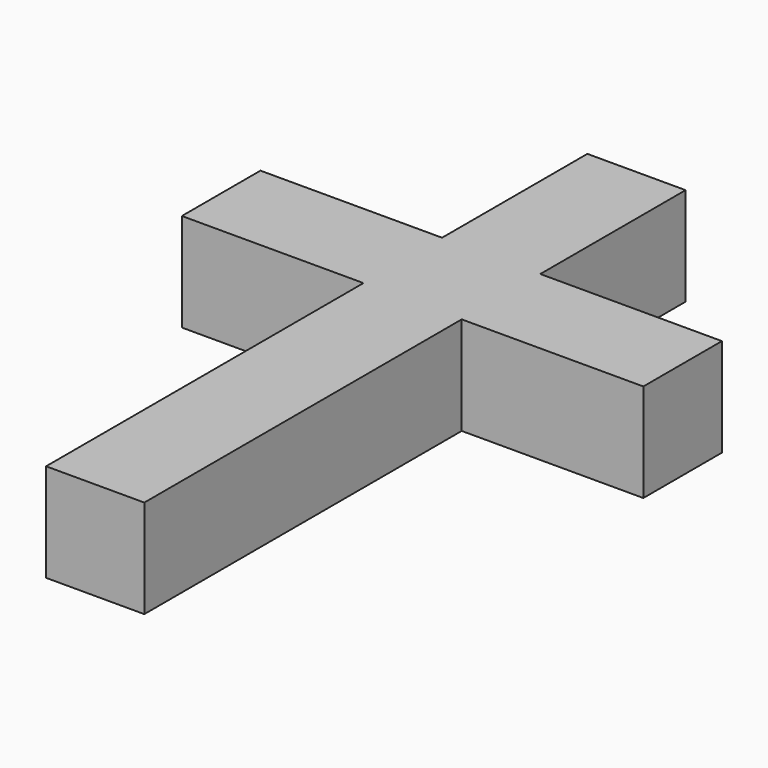
from build123d import *

# Parameters (mm, degrees)
F0_W     = 2.2
F0_H     = 8.8857451557
F0_W_2   = 4.0676805899
F0_H_2   = 2.2
F0_H_3   = 4.0676805899
F1_DEPTH = 2.2


with BuildPart() as f1:
    # F0 (on Top) → F1 (new body)
    with BuildSketch(Plane.XY):
        with Locations((0, 4.4428725779)):
            Rectangle(F0_W, F0_H)
        with Locations((-3.133840295, 9.9857451557)):
            Rectangle(F0_W_2, F0_H_2)
        with Locations((0, 9.9857451557)):
            Rectangle(F0_W, F0_H_2)
        with Locations((3.133840295, 9.9857451557)):
            Rectangle(F0_W_2, F0_H_2)
        with Locations((0, 13.1195854507)):
            Rectangle(F0_W, F0_H_3)
    extrude(amount=F1_DEPTH)


solid = f1.part
